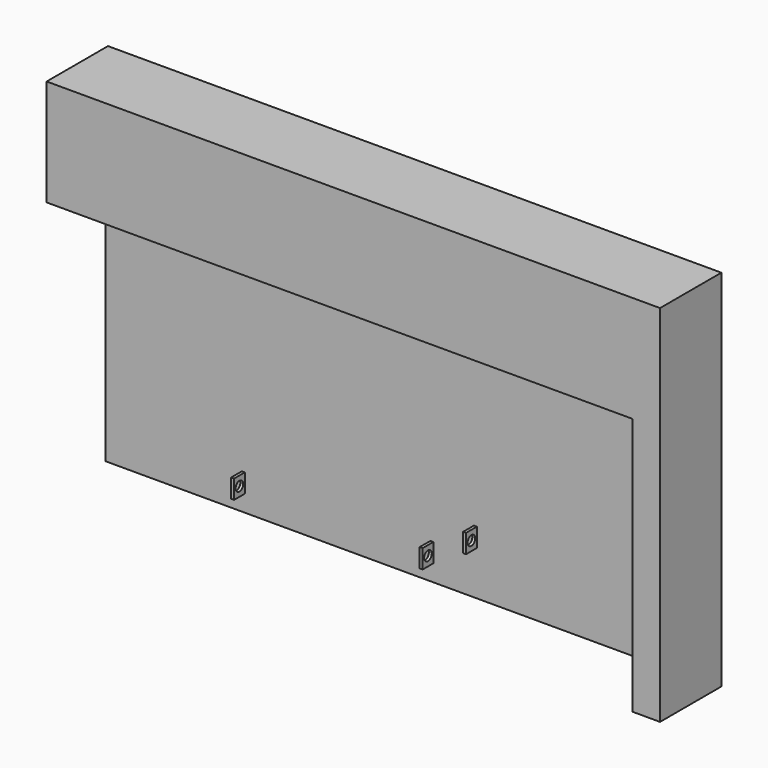
from build123d import *

# Parameters (mm, degrees)
F1_DEPTH = 125
F3_DEPTH = 149.2
F4_W     = 2
F4_H     = 5.5
F5_DEPTH = 1.201
F4_W_2   = 1.2
F4_H_2   = 7.7
F6_DEPTH = 5.5
F7_R     = 1.95
F8_R     = 1.95
F9_DEPTH = 78.4


with BuildPart() as f1:
    # F0 (on Right) → F1 (new body, symmetric)
    with BuildSketch(Plane.YZ):
        Polygon((0, 148), (0, 0), (1.2, 0), (1.2, 149.2), (-30.2, 149.2), (-30.2, 105.6), (-29, 105.6), (-29, 148), align=None)
    extrude(amount=F1_DEPTH, both=True)

    # F2 (on face) → F3 (join, through all)
    with BuildSketch(Plane(origin=(0, 0, 0), x_dir=(1, 0, 0), z_dir=(0, 0, -1))):
        Polygon((125, 29), (125, -1.2), (126.2, -1.2), (126.2, 30.2), (115, 30.2), (115, 29), align=None)
    extrude(amount=-F3_DEPTH)

    # F4 (on face) → F5 (cut, through all)
    with BuildSketch(Plane.XZ):
        with Locations((23.375, 104.75)):
            Rectangle(F4_W, F4_H)
        with Locations((106.625, 104.75)):
            Rectangle(F4_W, F4_H)
        with Locations((11.625, 93.45)):
            Rectangle(F4_W, F4_H)
        with Locations((-71.625, 93.45)):
            Rectangle(F4_W, F4_H)
    extrude(amount=-F5_DEPTH, mode=Mode.SUBTRACT)

    # F4 (on face) → F6 (join)
    with BuildSketch(Plane.XZ):
        with Locations((26.4, 22)):
            Rectangle(F4_W_2, F4_H_2)
        with Locations((103.6, 22)):
            Rectangle(F4_W_2, F4_H_2)
        with Locations((-68.6, 10.7)):
            Rectangle(F4_W_2, F4_H_2)
        with Locations((8.6, 10.7)):
            Rectangle(F4_W_2, F4_H_2)
    extrude(amount=F6_DEPTH)

    # F7 (on face) + F8 (on face) → F9 (cut, through all)
    with BuildSketch(Plane(origin=(25.8, 0, 0), x_dir=(0, -1, 0), z_dir=(-1, 0, 0))):
        with Locations((2.75, 22)):
            Circle(F7_R)
    with BuildSketch(Plane(origin=(-69.2, 0, 0), x_dir=(0, -1, 0), z_dir=(-1, 0, 0))):
        with Locations((2.75, 10.7)):
            Circle(F8_R)
    extrude(amount=-F9_DEPTH, mode=Mode.SUBTRACT)


solid = f1.part
